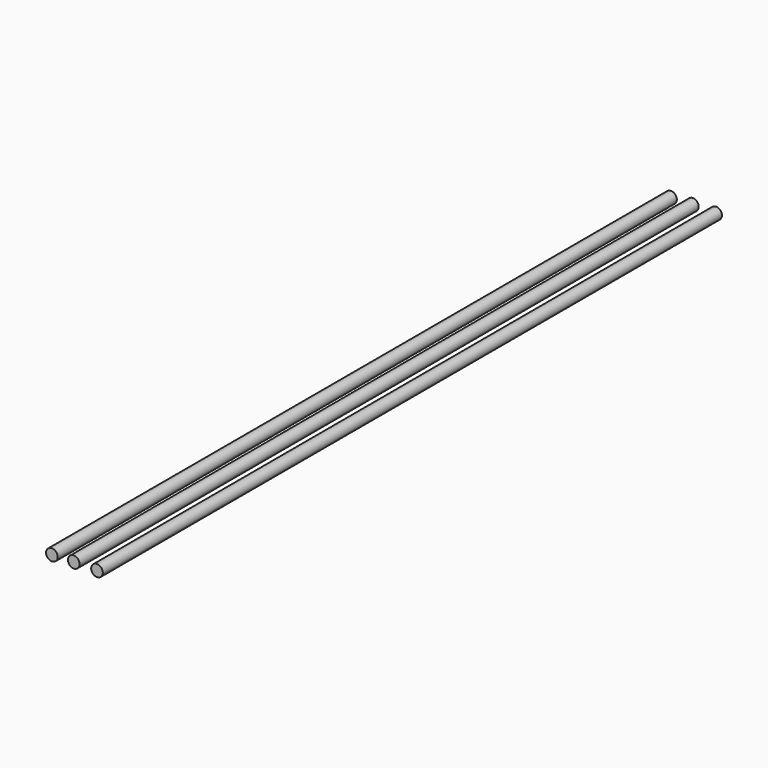
from build123d import *

# Parameters (mm, degrees)
F0_R     = 3
F1_DEPTH = 200
F2_R     = 3
F3_DEPTH = 200
F4_R     = 3
F5_DEPTH = 200


with BuildPart() as f1:
    # F0 (on Front) → F1 (new body, symmetric)
    with BuildSketch(Plane.XZ):
        Circle(F0_R)
    extrude(amount=F1_DEPTH, both=True)


with BuildPart() as f3:
    # F2 (on Front) → F3 (new body, symmetric)
    with BuildSketch(Plane.XZ):
        with Locations((-12, 0)):
            Circle(F2_R)
    extrude(amount=F3_DEPTH, both=True)


with BuildPart() as f5:
    # F4 (on Front) → F5 (new body, symmetric)
    with BuildSketch(Plane.XZ):
        with Locations((-23.313925, -0.408772)):
            Circle(F4_R)
    extrude(amount=F5_DEPTH, both=True)


solid = Compound([f1.part, f3.part, f5.part])
